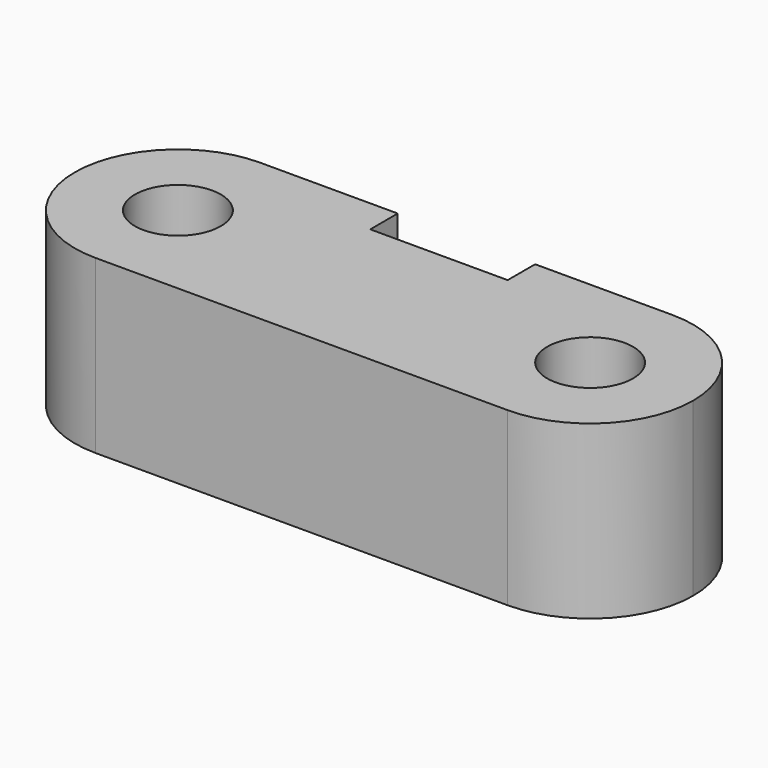
from build123d import *

# Parameters (mm, degrees)
F0_R     = 6.25
F1_DEPTH = 25


with BuildPart() as f1:
    # F0 (on Top) → F1 (new body)
    with BuildSketch(Plane.XY):
        with BuildLine():
            ThreePointArc((-50.053764, -22.16398), (-45.660366, -32.770582), (-35.053764, -37.16398))
            Line((-35.053764, -37.16398), (24.946236, -37.16398))
            ThreePointArc((24.946236, -37.16398), (35.552838, -32.770582), (39.946236, -22.16398))
            ThreePointArc((39.946236, -22.16398), (35.552838, -11.557379), (24.946236, -7.16398))
            Line((24.946236, -7.16398), (4.946236, -7.16398))
            Line((4.946236, -7.16398), (4.946236, -12.16398))
            Line((4.946236, -12.16398), (-15.053764, -12.16398))
            Line((-15.053764, -12.16398), (-15.053764, -7.16398))
            Line((-15.053764, -7.16398), (-35.053764, -7.16398))
            ThreePointArc((-35.053764, -7.16398), (-45.660366, -11.557379), (-50.053764, -22.16398))
        make_face()
        with Locations((-35.053764, -22.16398)):
            Circle(F0_R, mode=Mode.SUBTRACT)
        with Locations((24.946236, -22.16398)):
            Circle(F0_R, mode=Mode.SUBTRACT)
    extrude(amount=F1_DEPTH)


solid = f1.part
